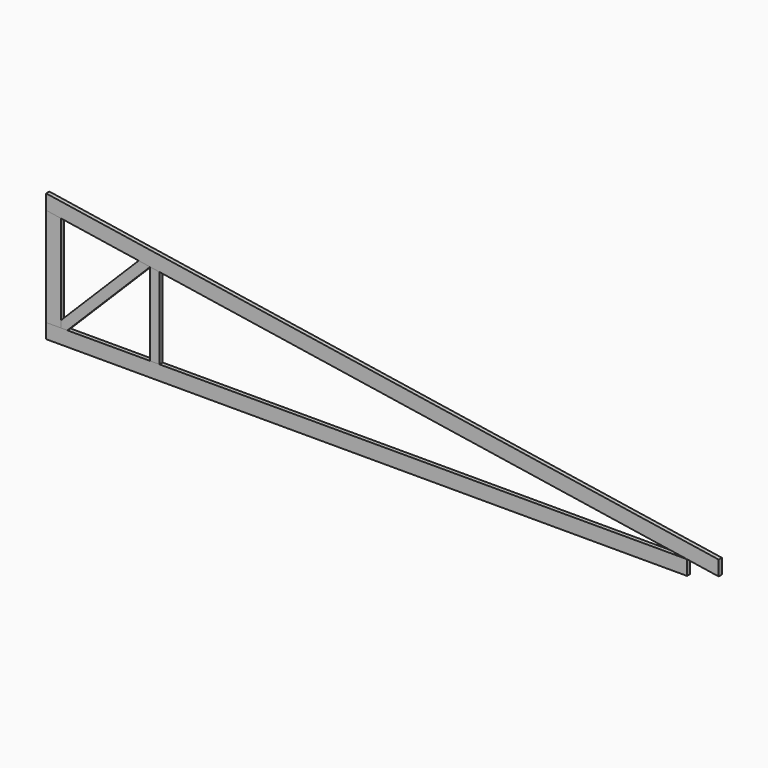
from build123d import *

# Parameters (mm, degrees)
F0_W      = 139.7
F0_H      = 939.8
F1_DEPTH  = 38.1
F2_W      = 6096
F2_H      = 139.7
F3_DEPTH  = 38.1
F5_DEPTH  = 38.101
F7_DEPTH  = 38.1
F9_DEPTH  = 38.1
F11_DEPTH = 38.1


with BuildPart() as f1:
    # F0 (on Front) → F1 (new body)
    with BuildSketch(Plane.XZ):
        with Locations((69.85, 469.9)):
            Rectangle(F0_W, F0_H)
    extrude(amount=-F1_DEPTH)

    # F4 (on face) → F5 (cut, through all)
    with BuildSketch(Plane.XZ):
        Polygon((139.7, 939.8), (0, 939.8), (139.7, 918.262917), align=None)
    extrude(amount=-F5_DEPTH, mode=Mode.SUBTRACT)


with BuildPart() as f3:
    # F2 (on face) → F3 (new body, through all)
    with BuildSketch(Plane.XZ):
        with Locations((3048, -69.85)):
            Rectangle(F2_W, F2_H)
    extrude(amount=-F3_DEPTH)


with BuildPart() as f7:
    # F6 (on face) → F7 (new body)
    with BuildSketch(Plane.XZ):
        Polygon((0, 1081.150401), (0, 939.8), (6096, 0), (6397.241168, -46.441347), (6397.241168, 94.909055), align=None)
    extrude(amount=-F7_DEPTH)


with BuildPart() as f9:
    # F8 (on face) → F9 (new body)
    with BuildSketch(Plane.XZ):
        Polygon((139.7, 0), (202.561793, 0), (989.77195, 787.210158), (880.841768, 804.003561), (139.7, 62.861793), align=None)
    extrude(amount=-F9_DEPTH)


with BuildPart() as f11:
    # F10 (on face) → F11 (new body)
    with BuildSketch(Plane.XZ):
        Polygon((1078.67195, 773.504741), (989.77195, 787.210158), (989.77195, 0), (1078.67195, 0), align=None)
    extrude(amount=-F11_DEPTH)


solid = Compound([f1.part, f3.part, f7.part, f9.part, f11.part])
